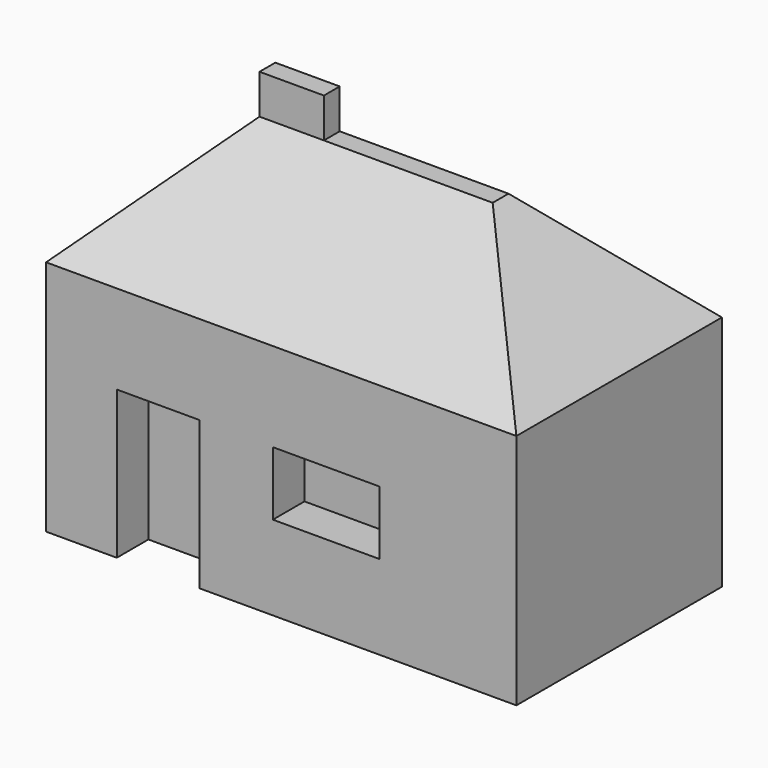
from build123d import *

# Parameters (mm, degrees)
F0_W     = 59.5000050962
F0_H     = 32.5015373528
F1_DEPTH = 25
F2_W     = 59.5000050962
F2_H     = 32.5015373528
F3_DEPTH = 20
F4_SIZE  = 15
F5_W     = 10.4703865945
F5_H     = 18.7411587685
F5_W_2   = 13.4615413845
F5_H_2   = 8.076922968
F6_DEPTH = 5
F7_W     = 8.1467057019
F7_H     = 2.5015373528
F8_DEPTH = 5


with BuildPart() as f1:
    # F0 (on Top) → F1 (new body)
    with BuildSketch(Plane.XY):
        with Locations((29.7500025481, 16.2507686764)):
            Rectangle(F0_W, F0_H)
    extrude(amount=F1_DEPTH)

    # F2 (on face) → F3 (join)
    with BuildSketch(Plane.XY.offset(25)):
        with Locations((29.7500025481, 16.2507686764)):
            Rectangle(F2_W, F2_H)
    extrude(amount=F3_DEPTH)

    # F4
    f4_edges = [f1.edges().sort_by_distance(p)[0] for p in [
        (0, 16.250769, 45),
        (59.500005, 16.250769, 45),
        (29.750003, 0, 45),
        (29.750003, 32.501537, 45),
    ]]
    chamfer(f4_edges, length=F4_SIZE)

    # F5 (on face) → F6 (cut)
    with BuildSketch(Plane.XZ):
        with Locations((14.1790322959, 9.3705793843)):
            Rectangle(F5_W, F5_H)
        with Locations((35.4199837893, 14.7026972845)):
            Rectangle(F5_W_2, F5_H_2)
    extrude(amount=-F6_DEPTH, mode=Mode.SUBTRACT)

    # F7 (on face) → F8 (join)
    with BuildSketch(Plane.XY.offset(45)):
        with Locations((19.073352851, 16.2507686764)):
            Rectangle(F7_W, F7_H)
    extrude(amount=F8_DEPTH)


solid = f1.part
